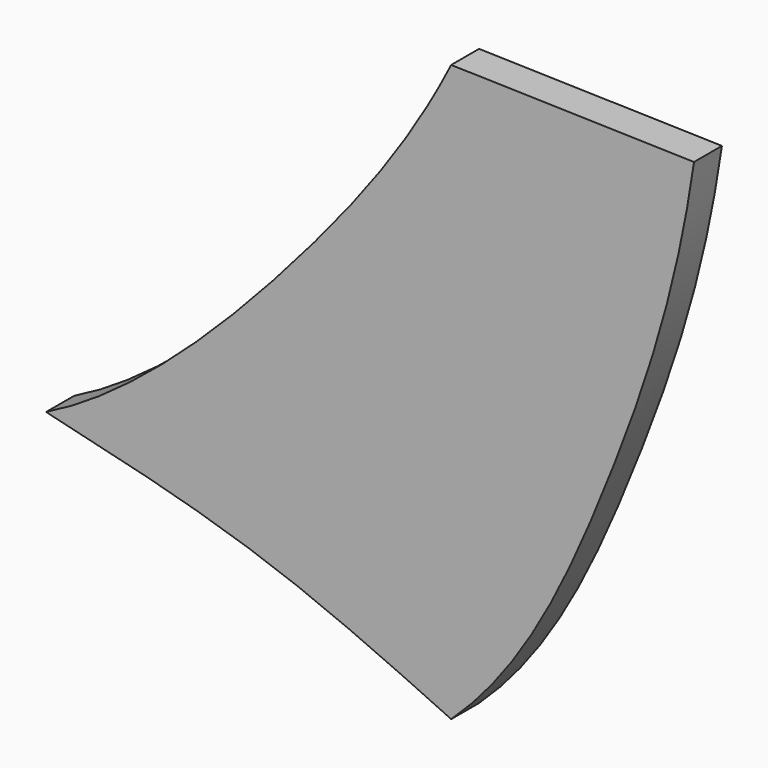
from build123d import *

# Parameters (mm, degrees)
F1_DEPTH = 19.05


with BuildPart() as f1:
    # F0 (on Front) → F1 (new body)
    with BuildSketch(Plane.XZ):
        with BuildLine():
            add(Edge.make_bspline(
                [(-266.2899792194, -285.4859232903), (-217.5403237343, -261.4411115646), (-124.3351135312, -167.9972341007), (-66.7605250759, -89.8089171047), (-44.8948852718, -46.5151704848)],
                knots=[0, 0, 0, 0, 0.52526592, 1, 1, 1, 1], degree=3))
            add(Edge.make_bspline(
                [(-266.2899792194, -285.4859232903), (-227.0785611227, -294.6534984244), (-149.495700753, -312.7922635109), (-79.5092468044, -345.2278793027), (-44.8948852718, -361.2700998783)],
                knots=[0, 0, 0, 0, 0.505413411, 1, 1, 1, 1], degree=3))
            add(Edge.make_bspline(
                [(-44.8948852718, -361.2700998783), (-5.2602101104, -324.5845072136), (43.0591526053, -220.3312568322), (77.9887032694, -118.1098201983), (87.8189504147, -50.0385500491)],
                knots=[0, 0, 0, 0, 0.4853793154, 1, 1, 1, 1], degree=3))
            Line((87.8189504147, -50.0385500491), (-44.8948852718, -46.5151704848))
        make_face()
    extrude(amount=F1_DEPTH)


solid = f1.part
